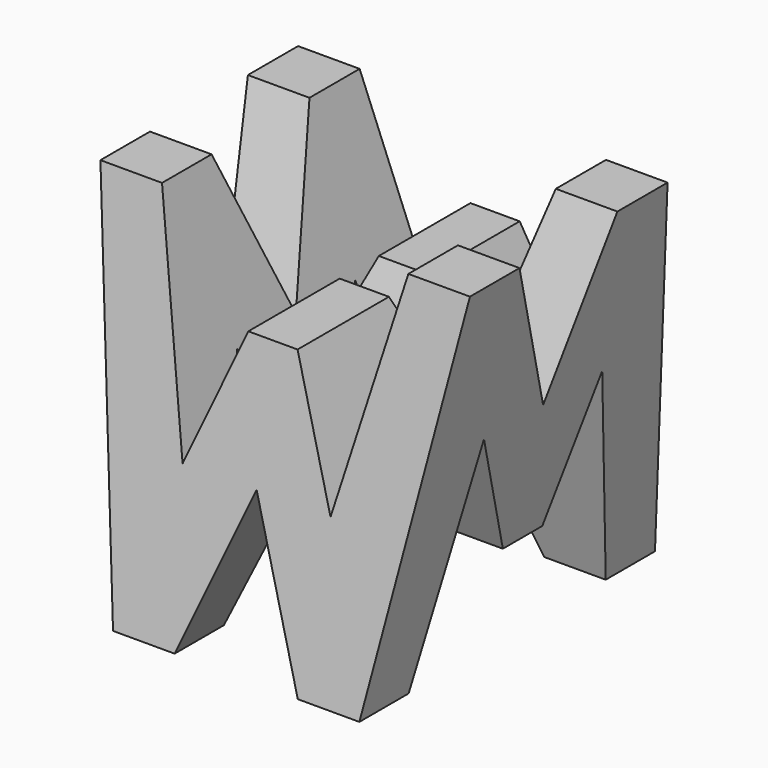
from build123d import *

# Parameters (mm, degrees)
F0_W     = 38.1
F0_H     = 38.1
F1_DEPTH = 38.1
F6_DEPTH = 38.1
F8_DEPTH = 38.1


with BuildPart() as f1:
    # F0 (on Front) → F1 (new body)
    with BuildSketch(Plane.XZ):
        with Locations((19.05, 19.05)):
            Rectangle(F0_W, F0_H)
    extrude(amount=F1_DEPTH)

    # F5 (on offset) → F6 (cut)
    with BuildSketch(Plane.XZ.offset(38.1)):
        Polygon((0, 38.1), (0, 0), (6.35, 0), align=None)
        Polygon((31.75, 38.1), (6.35, 38.1), (11.43, 15.77707), (16.51, 28.575), (21.59, 28.575), (26.67, 15.875), align=None)
        Polygon((38.1, 0), (38.1, 38.1), (31.75, 0), align=None)
        Polygon((19.05, 15.875), (12.7, 0), (25.4, 0), align=None)
    extrude(amount=-F6_DEPTH, mode=Mode.SUBTRACT)

    # F7 (on offset) → F8 (cut)
    with BuildSketch(Plane.YZ.offset(38.1)):
        Polygon((-38.1, 38.1), (-38.1, 0), (-31.784967, 38.1), align=None)
        Polygon((-26.67, 22.225), (-31.75, 0), (-6.35, 0), (-11.43, 22.225), (-16.51, 9.525), (-21.59, 9.525), align=None)
        Polygon((-12.780962, 38.1), (-25.4, 38.1), (-19.05, 22.225), align=None)
        Polygon((-6.315033, 38.1), (0, 0), (0, 38.1), align=None)
    extrude(amount=-F8_DEPTH, mode=Mode.SUBTRACT)


solid = f1.part
